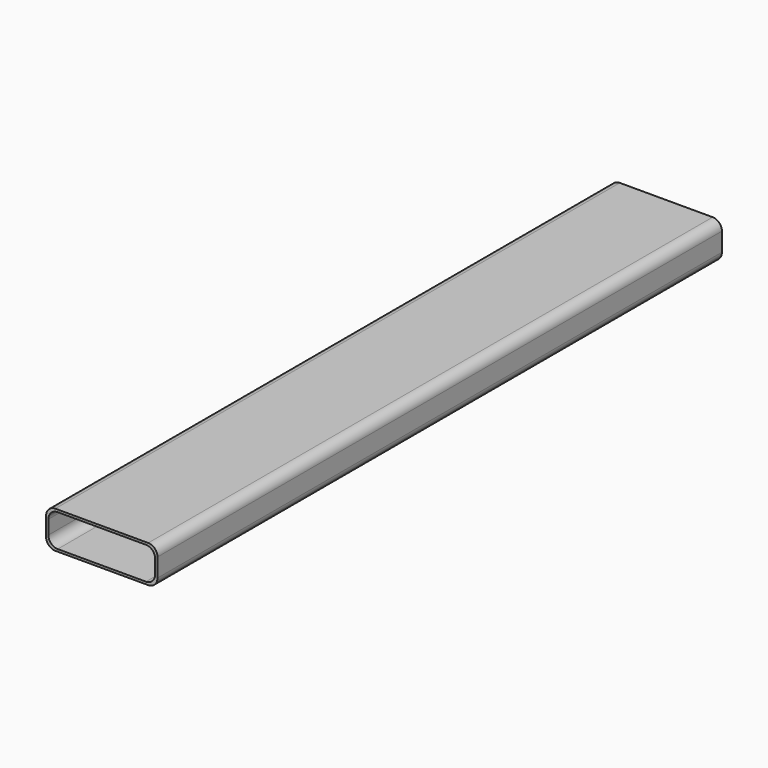
from build123d import *

# Parameters (mm, degrees)
F1_DEPTH = 1930.4


with BuildPart() as f1:
    # F0 (on Front) → F1 (new body)
    with BuildSketch(Plane.XZ):
        with BuildLine():
            ThreePointArc((0, 25.4), (7.439488, 7.439488), (25.4, 0))
            Line((25.4, 0), (279.4, 0))
            ThreePointArc((279.4, 0), (297.360512, 7.439488), (304.8, 25.4))
            Line((304.8, 25.4), (304.8, 76.2))
            ThreePointArc((304.8, 76.2), (297.360512, 94.160512), (279.4, 101.6))
            Line((279.4, 101.6), (25.4, 101.6))
            ThreePointArc((25.4, 101.6), (7.439488, 94.160512), (0, 76.2))
            Line((0, 76.2), (0, 25.4))
        make_face()
        with BuildLine():
            Line((273.05, 6.35), (31.75, 6.35))
            ThreePointArc((31.75, 6.35), (13.789488, 13.789488), (6.35, 31.75))
            Line((6.35, 31.75), (6.35, 69.85))
            ThreePointArc((6.35, 69.85), (13.789488, 87.810512), (31.75, 95.25))
            Line((31.75, 95.25), (273.05, 95.25))
            ThreePointArc((273.05, 95.25), (291.010512, 87.810512), (298.45, 69.85))
            Line((298.45, 69.85), (298.45, 31.75))
            ThreePointArc((298.45, 31.75), (291.010512, 13.789488), (273.05, 6.35))
        make_face(mode=Mode.SUBTRACT)
    extrude(amount=F1_DEPTH)


solid = f1.part
